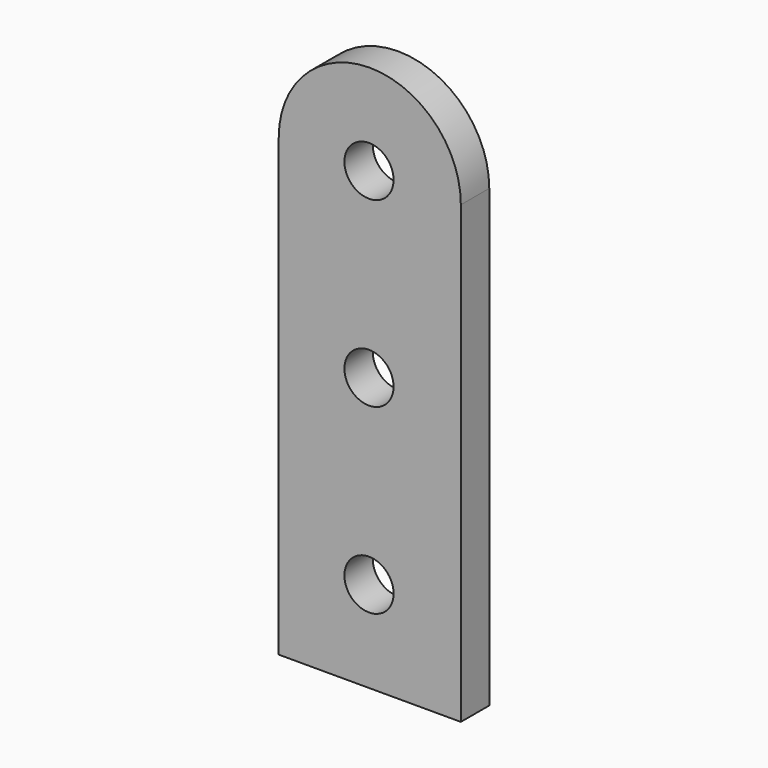
from build123d import *

# Parameters (mm, degrees)
F1_DEPTH = 4.953
F2_R     = 3.429
F3_DEPTH = 25.4


with BuildPart() as f1:
    # F0 (on Front) → F1 (new body)
    with BuildSketch(Plane.XZ):
        with BuildLine():
            Line((-12.5887309267, 0), (12.8112690733, 0))
            Line((12.8112690733, 0), (12.8112690733, 63.5))
            ThreePointArc((12.8112690733, 63.5), (0.1112690733, 50.8), (-12.5887309267, 63.5))
            Line((-12.5887309267, 63.5), (-12.5887309267, 0))
        make_face()
        with BuildLine():
            ThreePointArc((-12.5887309267, 63.5), (0.1112690733, 50.8), (12.8112690733, 63.5))
            Line((12.8112690733, 63.5), (-12.5887309267, 63.5))
        make_face()
        with BuildLine():
            Line((-12.5887309267, 63.5), (12.8112690733, 63.5))
            ThreePointArc((12.8112690733, 63.5), (0.1112690733, 76.2), (-12.5887309267, 63.5))
        make_face()
    extrude(amount=F1_DEPTH)

    # F2 (on face) → F3 (cut)
    with BuildSketch(Plane.XZ.offset(4.953)):
        with Locations((0, 12.7)):
            Circle(F2_R)
        with Locations((0, 38.1)):
            Circle(F2_R)
        with Locations((0, 63.5)):
            Circle(F2_R)
    extrude(amount=-F3_DEPTH, mode=Mode.SUBTRACT)


solid = f1.part
